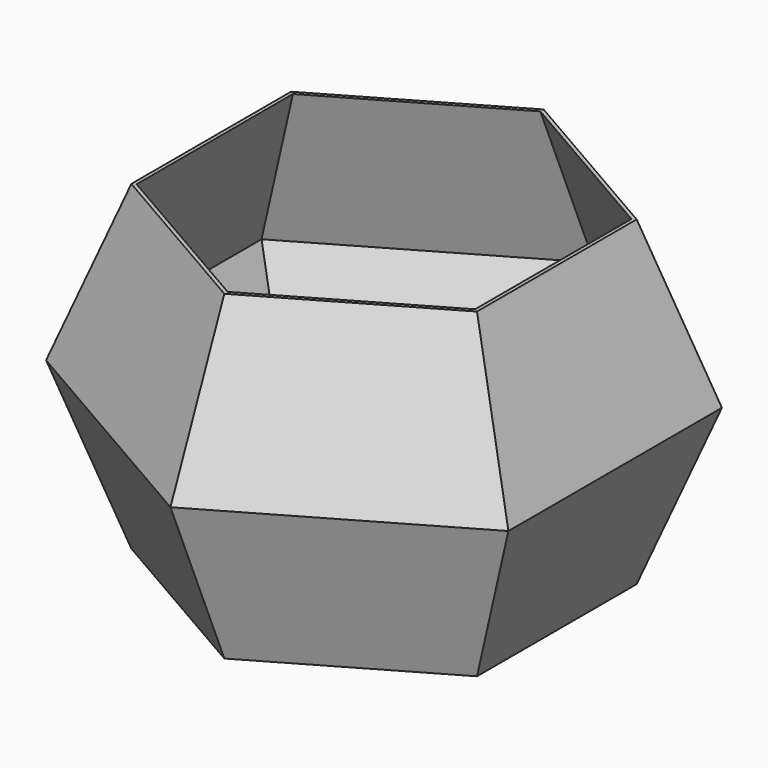
from build123d import *

# Parameters (mm, degrees)
F7_T     = -0.8
F8_R     = 9.3610319372
F9_DEPTH = 0.8010001


with BuildPart() as f3:
    # F0 (on Top) → F3 section 0
    with BuildSketch(Plane.XY):
        Polygon((41.0130694509, -23.6789066877), (41.0130694509, 23.6789066877), (0, 47.3578133755), (-41.0130694509, 23.6789066877), (-41.0130694509, -23.6789066877), (0, -47.3578133755), align=None)
    # F2 (on offset) → F3 section 1
    with BuildSketch(Plane.XY.offset(38.1)):
        Polygon((54.8533387482, -31.6695898922), (54.8533387482, 31.6695898922), (0, 63.3391797845), (-54.8533387482, 31.6695898922), (-54.8533387482, -31.6695898922), (0, -63.3391797845), align=None)
    loft()

    # F2 (on offset) → F6 section 0
    with BuildSketch(Plane.XY.offset(38.1)):
        Polygon((54.8533387482, -31.6695898922), (54.8533387482, 31.6695898922), (0, 63.3391797845), (-54.8533387482, 31.6695898922), (-54.8533387482, -31.6695898922), (0, -63.3391797845), align=None)
    # F5 (on offset) → F6 section 1
    with BuildSketch(Plane.XY.offset(76.2)):
        Polygon((41.0130694509, -23.6789066877), (41.0130694509, 23.6789066877), (0, 47.3578133755), (-41.0130694509, 23.6789066877), (-41.0130694509, -23.6789066877), (0, -47.3578133755), align=None)
    loft()

    # F7
    f7_openings = [f3.faces().sort_by_distance(p)[0] for p in [
        (0, 0, 76.2),
    ]]
    offset(amount=F7_T, openings=f7_openings, kind=Kind.INTERSECTION)

    # F8 (on face) → F9 (cut, through all)
    with BuildSketch(Plane.XY.offset(0.8)):
        Circle(F8_R)
    extrude(amount=-F9_DEPTH, mode=Mode.SUBTRACT)


solid = f3.part
